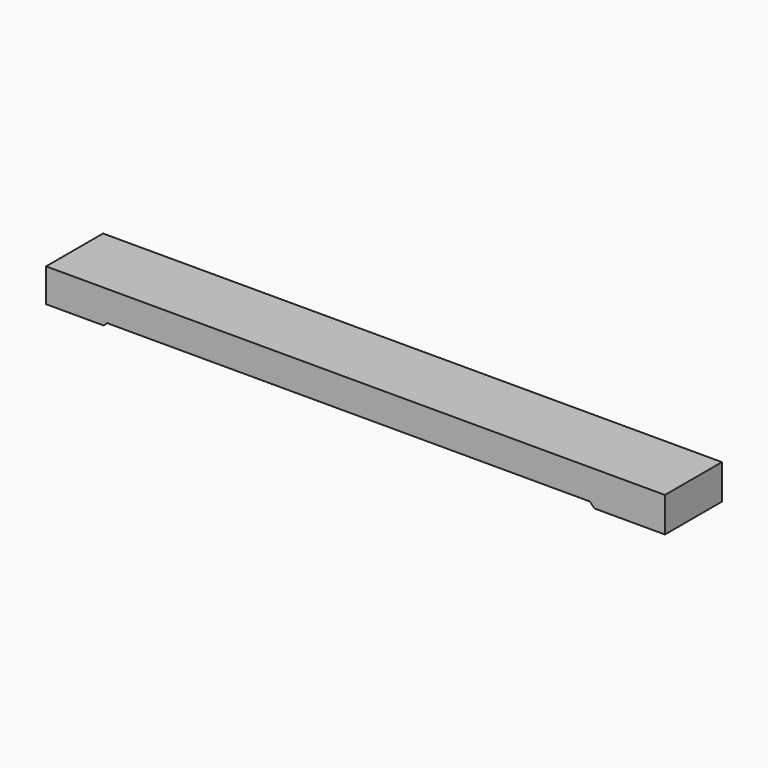
from build123d import *

# Parameters (mm, degrees)
EXTRUDE032_DEPTH = 552
EXTRUDE012_DEPTH = 555


with BuildPart() as extrude032:
    # Sketch033 → Extrude032 (new body, symmetric)
    with BuildSketch(Plane.XZ):
        Polygon((-597, -103), (-597, 417), (9047, 417), (9047, -122), (7947, -122), (7851, -26), (377, -26), (300, -103), align=None)
    extrude(amount=EXTRUDE032_DEPTH, both=True)


with BuildPart() as extrude032_1:
    # Extrude032 placement: moved
    add(extrude032.part.moved(Location((0, 0, -3))))


with BuildPart() as cut003:
    # Sketch020 → Extrude012 (new body, symmetric)
    with BuildSketch(Plane.XZ):
        Polygon((-600, -88.54), (-600, 431.46), (9050, 431.46), (9050, -111.54), (7950, -111.54), (7877, -38.54), (350, -38.54), (300, -88.54), align=None)
    extrude(amount=EXTRUDE012_DEPTH, both=True)

    # Cut003: cut Extrude032
    add(extrude032_1.part, mode=Mode.SUBTRACT)


solid = cut003.part
